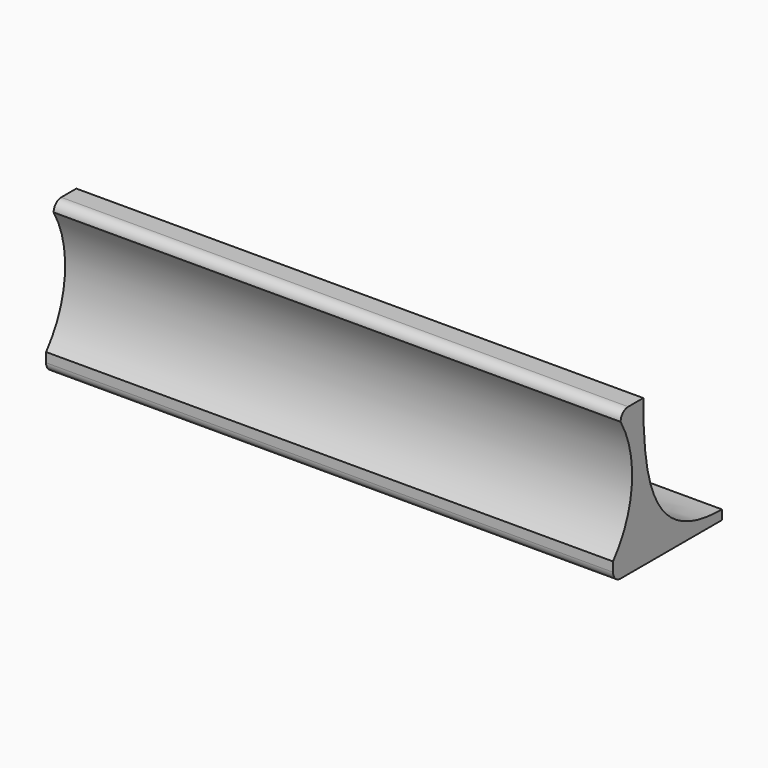
from build123d import *

# Parameters (mm, degrees)
F1_DEPTH = 60


with BuildPart() as f1:
    # F0 (on Right) → F1 (new body)
    with BuildSketch(Plane.YZ):
        with BuildLine():
            Line((-3.504068, -8.01231), (-3.504068, 6.58769))
            Line((-3.504068, 6.58769), (-5.504068, 6.58769))
            ThreePointArc((-5.504068, 6.58769), (-6.211174, 6.294796), (-6.504068, 5.58769))
            ThreePointArc((-6.504068, 5.58769), (-5.013659, -0.870279), (-7.504068, -7.01231))
            Line((-7.504068, -7.01231), (-7.504068, -8.01231))
            ThreePointArc((-7.504068, -8.01231), (-7.211174, -8.719417), (-6.504068, -9.01231))
            Line((-6.504068, -9.01231), (-3.504068, -9.01231))
            Line((-3.504068, -9.01231), (-3.504068, -8.01231))
        make_face()
        with BuildLine():
            add(Edge.make_bspline(
                [(-3.504068, 6.58769), (-3.504068, -1.169164), (-2.41404, -8.01231), (6.895932, -8.01231)],
                knots=[0, 0, 0, 0, 17.925401, 17.925401, 17.925401, 17.925401], degree=3))
            Line((-3.504068, 6.58769), (-3.504068, -8.01231))
            Line((-3.504068, -8.01231), (-3.504068, -9.01231))
            Line((-3.504068, -9.01231), (6.895932, -9.01231))
            Line((6.895932, -9.01231), (6.895932, -8.01231))
        make_face()
    extrude(amount=F1_DEPTH)


solid = f1.part
